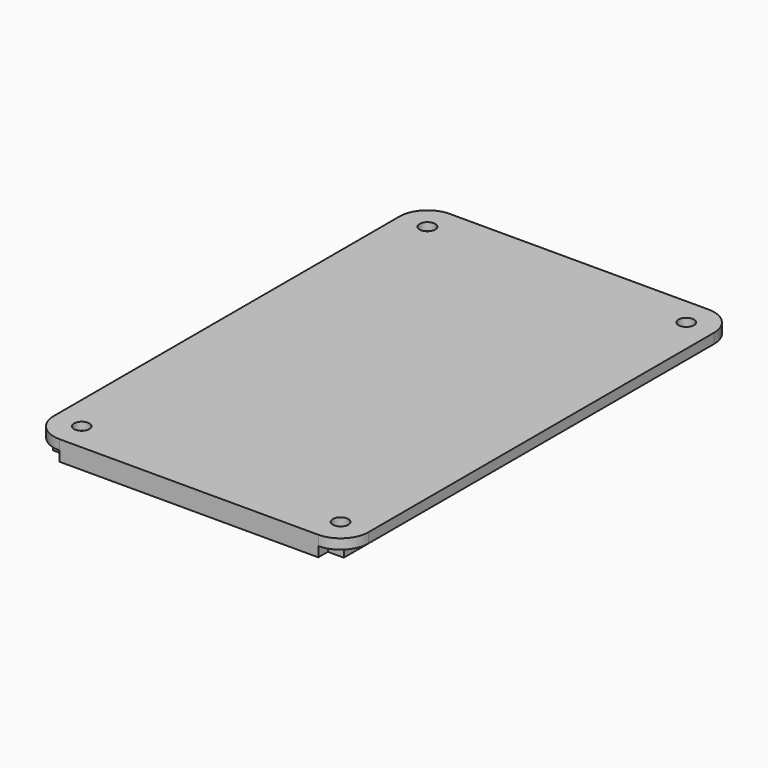
from build123d import *

# Parameters (mm, degrees)
F5_DEPTH       = 2.5
F3_W           = 10
F3_H           = 7
F3_W_2         = 6.1
F3_H_2         = 9.5
F7_DEPTH       = 5
F8_D           = 2.2
F8_DEPTH       = 10
F8_CBORE_D     = 3.9
F8_CBORE_DEPTH = 2
F8_TIP         = 0.6609466809
F6_W           = 65
F6_H           = 3
F9_DEPTH       = 5


with BuildPart() as f5:
    # F0 (on Top) → F5 (new body)
    with BuildSketch(Plane.XY):
        with BuildLine():
            Line((32.4426109495, 61.9244772196), (-32.5573890505, 61.9244772196))
            ThreePointArc((-32.5573890505, 61.9244772196), (-37.5071365188, 59.8742246879), (-39.5573890505, 54.9244772196))
            Line((-39.5573890505, 54.9244772196), (-39.5573890505, -53.5755227804))
            ThreePointArc((-39.5573890505, -53.5755227804), (-37.5071365188, -58.5252702487), (-32.5573890505, -60.5755227804))
            Line((-32.5573890505, -60.5755227804), (32.4426109495, -60.5755227804))
            ThreePointArc((32.4426109495, -60.5755227804), (37.3923584178, -58.5252702487), (39.4426109495, -53.5755227804))
            Line((39.4426109495, -53.5755227804), (39.4426109495, 54.9244772196))
            ThreePointArc((39.4426109495, 54.9244772196), (37.3923584178, 59.8742246879), (32.4426109495, 61.9244772196))
        make_face()
        with BuildLine():
            ThreePointArc((-36.5573890505, 54.9244772196), (-35.3858161753, 57.7529043443), (-32.5573890505, 58.9244772196))
            Line((-32.5573890505, 58.9244772196), (32.4426109495, 58.9244772196))
            ThreePointArc((32.4426109495, 58.9244772196), (35.2710380742, 57.7529043443), (36.4426109495, 54.9244772196))
            Line((36.4426109495, 54.9244772196), (36.4426109495, -53.5755227804))
            ThreePointArc((36.4426109495, -53.5755227804), (35.2710380742, -56.4039499052), (32.4426109495, -57.5755227804))
            Line((32.4426109495, -57.5755227804), (-32.5573890505, -57.5755227804))
            ThreePointArc((-32.5573890505, -57.5755227804), (-35.3858161753, -56.4039499052), (-36.5573890505, -53.5755227804))
            Line((-36.5573890505, -53.5755227804), (-36.5573890505, 54.9244772196))
        make_face(mode=Mode.SUBTRACT)
        with BuildLine():
            Line((32.4426109495, 58.9244772196), (-32.5573890505, 58.9244772196))
            ThreePointArc((-32.5573890505, 58.9244772196), (-35.3858161753, 57.7529043443), (-36.5573890505, 54.9244772196))
            Line((-36.5573890505, 54.9244772196), (-36.5573890505, -53.5755227804))
            ThreePointArc((-36.5573890505, -53.5755227804), (-35.3858161753, -56.4039499052), (-32.5573890505, -57.5755227804))
            Line((-32.5573890505, -57.5755227804), (32.4426109495, -57.5755227804))
            ThreePointArc((32.4426109495, -57.5755227804), (35.2710380742, -56.4039499052), (36.4426109495, -53.5755227804))
            Line((36.4426109495, -53.5755227804), (36.4426109495, 54.9244772196))
            ThreePointArc((36.4426109495, 54.9244772196), (35.2710380742, 57.7529043443), (32.4426109495, 58.9244772196))
        make_face()
    extrude(amount=F5_DEPTH)

    # F3 (on offset) → F7 (join)
    with BuildSketch(Plane.XY.offset(2.5)):
        with Locations((31.4426109495, 55.4244772196)):
            Rectangle(F3_W, F3_H)
        with Locations((-31.5573890505, 55.4244772196)):
            Rectangle(F3_W, F3_H)
        with Locations((-33.5073890505, -52.8255227804)):
            Rectangle(F3_W_2, F3_H_2)
        Polygon((36.4426109495, -57.5755227804), (36.4426109495, -48.0755227804), (20.3426109495, -48.0755227804), (22.4426109495, -57.5755227804), align=None)
    extrude(amount=-F7_DEPTH)

    # F8
    with Locations(Plane.XY.offset(2.5)):
        with Locations((-32.5573890505, 54.9244772196), (32.4426109495, 54.9244772196), (32.4426109495, -53.5755227804), (-32.5573890505, -53.5755227804)):
            CounterBoreHole(F8_D / 2, F8_CBORE_D / 2, F8_CBORE_DEPTH, depth=F8_DEPTH)
            with Locations((0, 0, -(F8_DEPTH + F8_TIP / 2))):  # 118° drill point
                Cone(0, F8_D / 2, F8_TIP, mode=Mode.SUBTRACT)

    # F6 (on offset) → F9 (join)
    with BuildSketch(Plane.XY.offset(2.5)):
        with Locations((-0.0573890505, -59.0755227804)):
            Rectangle(F6_W, F6_H)
    extrude(amount=-F9_DEPTH)


solid = f5.part
